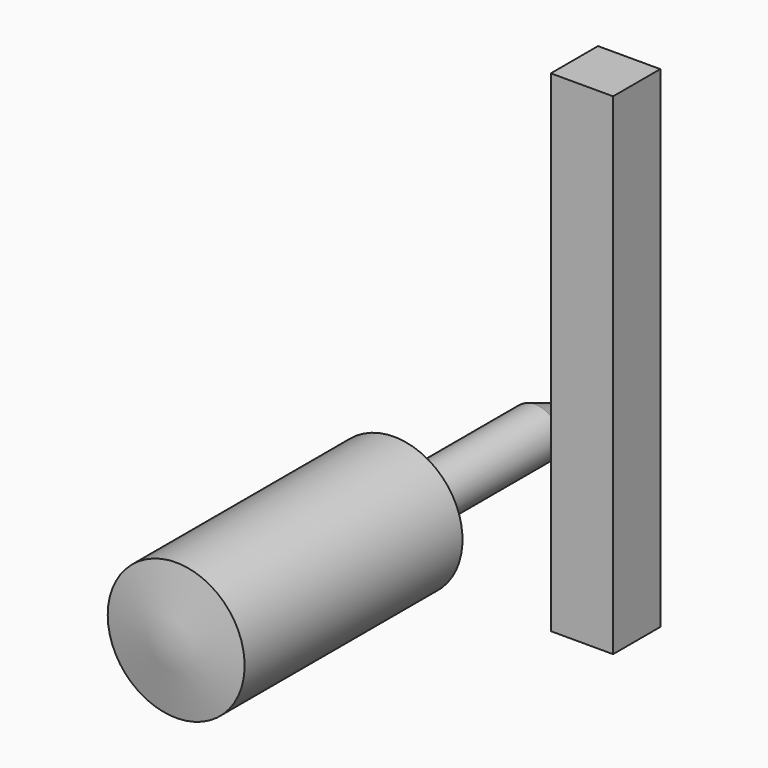
from build123d import *

# Parameters (mm, degrees)
F2_W     = 14.691623
F2_H     = 13.90826
F3_DEPTH = 115.824


with BuildPart() as f1:
    # F0 (on Top) → F1 (revolve)
    with BuildSketch(Plane.XY):
        Polygon((-59.566047, 0), (-59.566047, -64.233713), (-43.421596, -67.007601), (-43.421596, 56.999426), (-49.351558, 41.596729), (-49.351558, 0), align=None)
    revolve(axis=Axis((-43.421596, -5.004087, 0), (0, -1, 0)))


with BuildPart() as f3:
    # F2 (on Top) → F3 (new body)
    with BuildSketch(Plane.XY):
        with Locations((15.55096, -11.369312)):
            Rectangle(F2_W, F2_H)
    extrude(amount=F3_DEPTH)


solid = Compound([f1.part, f3.part])
